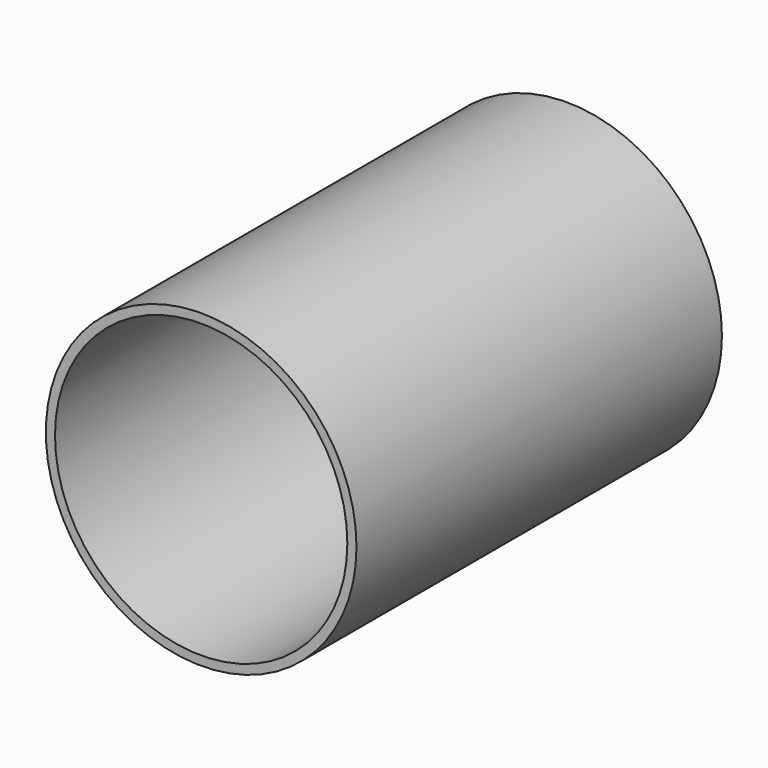
from build123d import *

# Parameters (mm, degrees)
F0_R     = 8.5
F1_DEPTH = 25
F2_T     = -0.5


with BuildPart() as f1:
    # F0 (on Front) → F1 (new body)
    with BuildSketch(Plane.XZ):
        Circle(F0_R)
    extrude(amount=-F1_DEPTH)

    # F2
    f2_openings = [f1.faces().sort_by_distance(p)[0] for p in [
        (0, 0, 0),
    ]]
    offset(amount=F2_T, openings=f2_openings)


solid = f1.part
